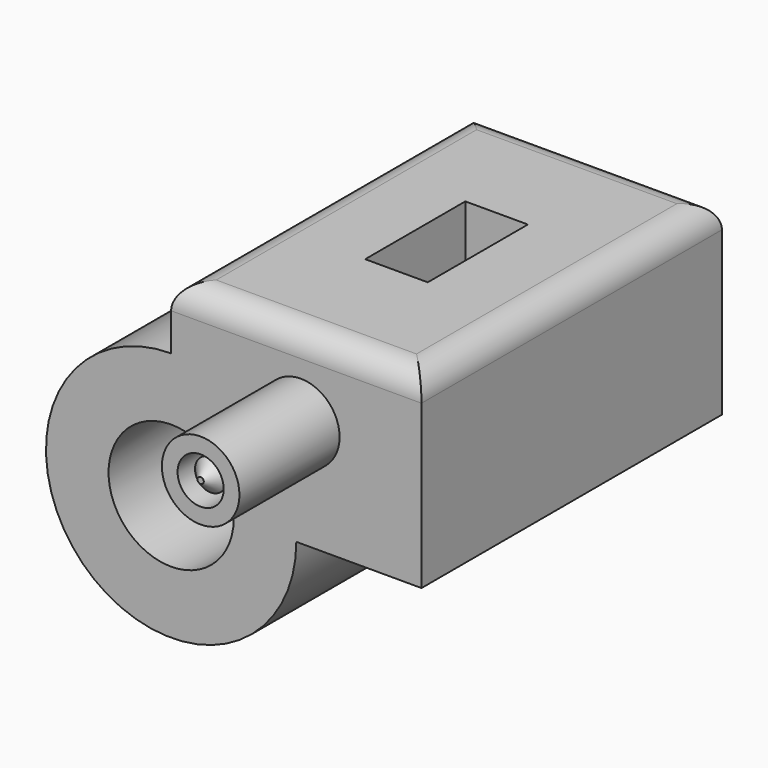
from build123d import *

# Parameters (mm, degrees)
F1_DEPTH  = 38.1
F2_W      = 12.7
F2_H      = 25.4
F3_DEPTH  = 25.4
F4_R      = 5.08
F5_R      = 12.7
F6_DEPTH  = 25.4
F7_R      = 3.175
F8_DEPTH  = 25.4
F9_SIZE   = 2.54
F10_R     = 7.871547
F10_R_2   = 4.684347
F11_DEPTH = 25.4


with BuildPart() as f1:
    # F0 (on Front) → F1 (new body, symmetric)
    with BuildSketch(Plane.XZ):
        with BuildLine():
            Line((0, 38.1), (0, 25.4))
            ThreePointArc((0, 25.4), (-17.960512, -17.960512), (25.4, 0))
            Line((25.4, 0), (50.8, 0))
            Line((50.8, 0), (50.8, 38.1))
            Line((50.8, 38.1), (0, 38.1))
        make_face()
    extrude(amount=F1_DEPTH, both=True)

    # F2 (on face) → F3 (cut)
    with BuildSketch(Plane.XY.offset(38.1)):
        with Locations((25.4, 0)):
            Rectangle(F2_W, F2_H)
    extrude(amount=-F3_DEPTH, mode=Mode.SUBTRACT)

    # F4
    f4_edges = [f1.edges().sort_by_distance(p)[0] for p in [
        (25.4, -38.1, 38.1),
        (50.8, 0, 38.1),
        (25.4, 38.1, 38.1),
        (0, 0, 38.1),
    ]]
    fillet(f4_edges, radius=F4_R)

    # F5 (on face) → F6 (cut)
    with BuildSketch(Plane.XZ.offset(38.1)):
        Circle(F5_R)
    extrude(amount=-F6_DEPTH, mode=Mode.SUBTRACT)

    # F7 (on face) → F8 (join)
    with BuildSketch(Plane.XZ.offset(38.1)):
        with Locations((26.305903, 21.572661)):
            Circle(F7_R)
    extrude(amount=F8_DEPTH)

    # F9
    f9_edges = [f1.edges().sort_by_distance(p)[0] for p in [
        (23.130903, -63.5, 21.572661),
    ]]
    chamfer(f9_edges, length=F9_SIZE)


with BuildPart() as f11:
    # F10 (on face) → F11 (new body)
    with BuildSketch(Plane.XZ.offset(38.1)):
        with Locations((26.305903, 21.572661)):
            Circle(F10_R)
        with Locations((26.305903, 21.572661)):
            Circle(F10_R_2, mode=Mode.SUBTRACT)
    extrude(amount=F11_DEPTH)


solid = Compound([f1.part, f11.part])
